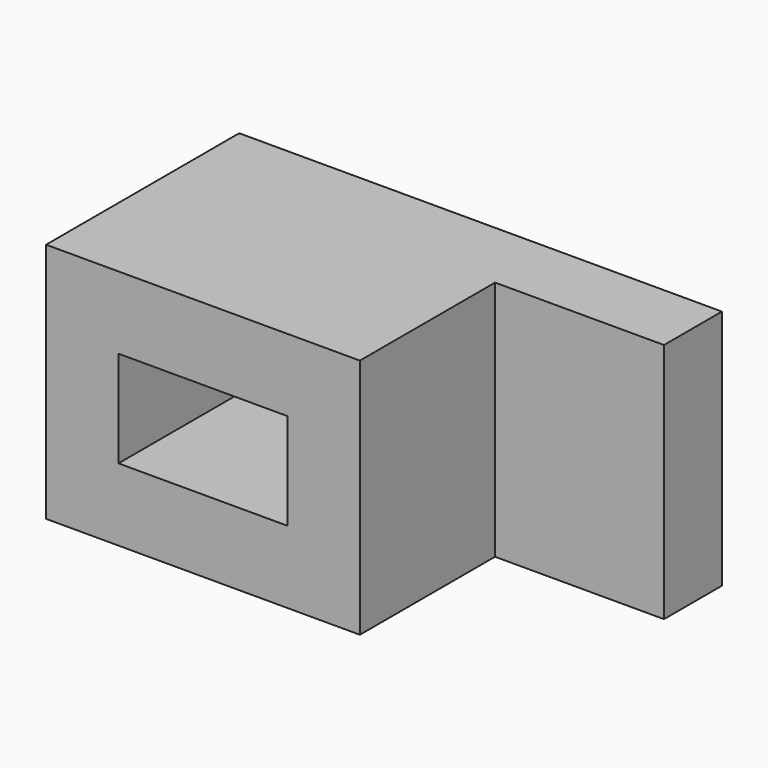
from build123d import *

# Parameters (mm, degrees)
F0_W     = 82.55
F0_H     = 63.5
F0_W_2   = 44.45
F0_H_2   = 25.4
F1_DEPTH = 63.5
F2_DEPTH = 19.05


with BuildPart() as f1:
    # F0 (on Front) → F1 (new body)
    with BuildSketch(Plane.XZ):
        with Locations((41.275, 31.75)):
            Rectangle(F0_W, F0_H)
        with Locations((41.275, 31.75)):
            Rectangle(F0_W_2, F0_H_2, mode=Mode.SUBTRACT)
    extrude(amount=F1_DEPTH)

    # F0 (on Front) → F2 (join)
    with BuildSketch(Plane.XZ):
        with Locations((104.775, 31.75)):
            Rectangle(F0_W_2, F0_H)
    extrude(amount=F2_DEPTH)


solid = f1.part
